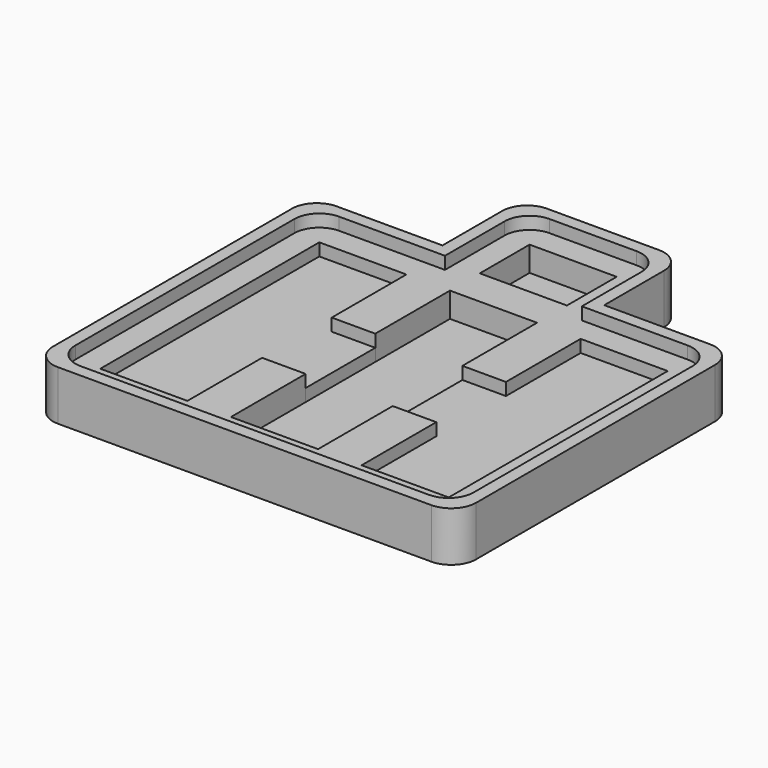
from build123d import *

# Parameters (mm, degrees)
F0_W     = 22.225
F0_H     = 23.8125
F0_H_2   = 22.225
F1_DEPTH = 3.175
F0_W_2   = 11.1125
F2_DEPTH = 6.35
F0_W_3   = 6.35
F0_H_3   = 3.175
F3_DEPTH = 9.525
F4_DEPTH = 12.7
F5_R     = 6.35


with BuildPart() as f1:
    # F0 (on Top) → F1 (new body)
    with BuildSketch(Plane.XY):
        with Locations((10.0915509015, 27.4633634105)):
            Rectangle(F0_W, F0_H)
        with Locations((10.0915509015, 4.4446134105)):
            Rectangle(F0_W, F0_H_2)
        with Locations((10.0915509015, -18.5741365895)):
            Rectangle(F0_W, F0_H)
    extrude(amount=F1_DEPTH)

    # F0 (on Top) → F2 (join)
    with BuildSketch(Plane.XY):
        with BuildLine():
            Line((48.1915509015, 39.3696134105), (32.3165509015, 39.3696134105))
            Line((32.3165509015, 39.3696134105), (32.3165509015, 15.5571134105))
            Line((32.3165509015, 15.5571134105), (32.3165509015, -6.6678865895))
            Line((32.3165509015, -6.6678865895), (32.3165509015, -30.4803865895))
            Line((32.3165509015, -30.4803865895), (48.1915509015, -30.4803865895))
            ThreePointArc((48.1915509015, -30.4803865895), (50.051422841, -25.9902585289), (54.5415509015, -24.1303865895))
            Line((54.5415509015, -24.1303865895), (54.5415509015, 33.0196134105))
            ThreePointArc((54.5415509015, 33.0196134105), (50.051422841, 34.87948535), (48.1915509015, 39.3696134105))
        make_face()
        with BuildLine():
            Line((-12.1334490985, 39.3696134105), (-28.0084490985, 39.3696134105))
            ThreePointArc((-28.0084490985, 39.3696134105), (-29.8683210379, 34.87948535), (-34.3584490985, 33.0196134105))
            Line((-34.3584490985, 33.0196134105), (-34.3584490985, -24.1303865895))
            ThreePointArc((-34.3584490985, -24.1303865895), (-29.8683210379, -25.9902585289), (-28.0084490985, -30.4803865895))
            Line((-28.0084490985, -30.4803865895), (-12.1334490985, -30.4803865895))
            Line((-12.1334490985, -30.4803865895), (-12.1334490985, -6.6678865895))
            Line((-12.1334490985, -6.6678865895), (-12.1334490985, 15.5571134105))
            Line((-12.1334490985, 15.5571134105), (-12.1334490985, 39.3696134105))
        make_face()
        with Locations((-6.5771990985, 4.4446134105)):
            Rectangle(F0_W_2, F0_H_2)
        with Locations((26.7603009015, 4.4446134105)):
            Rectangle(F0_W_2, F0_H_2)
        with BuildLine():
            Line((-28.0084490985, 39.3696134105), (-34.3584490985, 39.3696134105))
            Line((-34.3584490985, 39.3696134105), (-34.3584490985, 33.0196134105))
            ThreePointArc((-34.3584490985, 33.0196134105), (-29.8683210379, 34.87948535), (-28.0084490985, 39.3696134105))
        make_face()
        with BuildLine():
            ThreePointArc((-28.0084490985, -30.4803865895), (-29.8683210379, -25.9902585289), (-34.3584490985, -24.1303865895))
            Line((-34.3584490985, -24.1303865895), (-34.3584490985, -30.4803865895))
            Line((-34.3584490985, -30.4803865895), (-28.0084490985, -30.4803865895))
        make_face()
        with BuildLine():
            Line((54.5415509015, 39.3696134105), (48.1915509015, 39.3696134105))
            ThreePointArc((48.1915509015, 39.3696134105), (50.051422841, 34.87948535), (54.5415509015, 33.0196134105))
            Line((54.5415509015, 33.0196134105), (54.5415509015, 39.3696134105))
        make_face()
        with BuildLine():
            Line((48.1915509015, -30.4803865895), (54.5415509015, -30.4803865895))
            Line((54.5415509015, -30.4803865895), (54.5415509015, -24.1303865895))
            ThreePointArc((54.5415509015, -24.1303865895), (50.051422841, -25.9902585289), (48.1915509015, -30.4803865895))
        make_face()
    extrude(amount=F2_DEPTH)


with BuildPart() as f1b:
    # F0 (on Top) → F1, piece 2 (new body)
    with BuildSketch(Plane.XY):
        with BuildLine():
            Line((-1.0209490985, 58.4196134105), (-1.0209490985, 48.8946134105))
            Line((-1.0209490985, 48.8946134105), (21.2040509015, 48.8946134105))
            Line((21.2040509015, 48.8946134105), (21.2040509015, 58.4196134105))
            ThreePointArc((21.2040509015, 58.4196134105), (16.713922841, 60.27948535), (14.8540509015, 64.7696134105))
            Line((14.8540509015, 64.7696134105), (5.3290509015, 64.7696134105))
            ThreePointArc((5.3290509015, 64.7696134105), (3.4691789621, 60.27948535), (-1.0209490985, 58.4196134105))
        make_face()
        with BuildLine():
            Line((-1.0209490985, 64.7696134105), (-1.0209490985, 58.4196134105))
            ThreePointArc((-1.0209490985, 58.4196134105), (3.4691789621, 60.27948535), (5.3290509015, 64.7696134105))
            Line((5.3290509015, 64.7696134105), (-1.0209490985, 64.7696134105))
        make_face()
        with BuildLine():
            ThreePointArc((14.8540509015, 64.7696134105), (16.713922841, 60.27948535), (21.2040509015, 58.4196134105))
            Line((21.2040509015, 58.4196134105), (21.2040509015, 64.7696134105))
            Line((21.2040509015, 64.7696134105), (14.8540509015, 64.7696134105))
        make_face()
    extrude(amount=F1_DEPTH)


with BuildPart() as f3:
    # F0 (on Top) → F3 (new body)
    with BuildSketch(Plane.XY):
        with BuildLine():
            Line((-40.7084490985, 39.3696134105), (-34.3584490985, 39.3696134105))
            Line((-34.3584490985, 39.3696134105), (-34.3584490985, 45.7196134105))
            ThreePointArc((-34.3584490985, 45.7196134105), (-38.848577159, 43.8597414711), (-40.7084490985, 39.3696134105))
        make_face()
        with BuildLine():
            Line((-34.3584490985, 45.7196134105), (-34.3584490985, 39.3696134105))
            Line((-34.3584490985, 39.3696134105), (-28.0084490985, 39.3696134105))
            ThreePointArc((-28.0084490985, 39.3696134105), (-29.8683210379, 43.8597414711), (-34.3584490985, 45.7196134105))
        make_face()
        with BuildLine():
            ThreePointArc((-34.3584490985, 45.7196134105), (-29.8683210379, 43.8597414711), (-28.0084490985, 39.3696134105))
            Line((-28.0084490985, 39.3696134105), (-12.1334490985, 39.3696134105))
            Line((-12.1334490985, 39.3696134105), (-1.0209490985, 39.3696134105))
            Line((-1.0209490985, 39.3696134105), (21.2040509015, 39.3696134105))
            Line((21.2040509015, 39.3696134105), (32.3165509015, 39.3696134105))
            Line((32.3165509015, 39.3696134105), (48.1915509015, 39.3696134105))
            ThreePointArc((48.1915509015, 39.3696134105), (50.051422841, 43.8597414711), (54.5415509015, 45.7196134105))
            Line((54.5415509015, 45.7196134105), (27.5540509015, 45.7196134105))
            Line((27.5540509015, 45.7196134105), (21.2040509015, 45.7196134105))
            Line((21.2040509015, 45.7196134105), (-1.0209490985, 45.7196134105))
            Line((-1.0209490985, 45.7196134105), (-7.3709490985, 45.7196134105))
            Line((-7.3709490985, 45.7196134105), (-34.3584490985, 45.7196134105))
        make_face()
        with BuildLine():
            ThreePointArc((54.5415509015, 45.7196134105), (50.051422841, 43.8597414711), (48.1915509015, 39.3696134105))
            Line((48.1915509015, 39.3696134105), (54.5415509015, 39.3696134105))
            Line((54.5415509015, 39.3696134105), (54.5415509015, 45.7196134105))
        make_face()
        with BuildLine():
            ThreePointArc((60.8915509015, 39.3696134105), (59.0316789621, 43.8597414711), (54.5415509015, 45.7196134105))
            Line((54.5415509015, 45.7196134105), (54.5415509015, 39.3696134105))
            Line((54.5415509015, 39.3696134105), (60.8915509015, 39.3696134105))
        make_face()
        with BuildLine():
            ThreePointArc((54.5415509015, 33.0196134105), (59.0316789621, 34.87948535), (60.8915509015, 39.3696134105))
            Line((60.8915509015, 39.3696134105), (54.5415509015, 39.3696134105))
            Line((54.5415509015, 39.3696134105), (54.5415509015, 33.0196134105))
        make_face()
        with BuildLine():
            ThreePointArc((54.5415509015, -24.1303865895), (59.0316789621, -25.9902585289), (60.8915509015, -30.4803865895))
            Line((60.8915509015, -30.4803865895), (60.8915509015, 39.3696134105))
            ThreePointArc((60.8915509015, 39.3696134105), (59.0316789621, 34.87948535), (54.5415509015, 33.0196134105))
            Line((54.5415509015, 33.0196134105), (54.5415509015, -24.1303865895))
        make_face()
        with BuildLine():
            Line((54.5415509015, -24.1303865895), (54.5415509015, -30.4803865895))
            Line((54.5415509015, -30.4803865895), (60.8915509015, -30.4803865895))
            ThreePointArc((60.8915509015, -30.4803865895), (59.0316789621, -25.9902585289), (54.5415509015, -24.1303865895))
        make_face()
        with BuildLine():
            Line((54.5415509015, -30.4803865895), (54.5415509015, -36.8303865895))
            ThreePointArc((54.5415509015, -36.8303865895), (59.0316789621, -34.97051465), (60.8915509015, -30.4803865895))
            Line((60.8915509015, -30.4803865895), (54.5415509015, -30.4803865895))
        make_face()
        with BuildLine():
            ThreePointArc((48.1915509015, -30.4803865895), (50.051422841, -34.97051465), (54.5415509015, -36.8303865895))
            Line((54.5415509015, -36.8303865895), (54.5415509015, -30.4803865895))
            Line((54.5415509015, -30.4803865895), (48.1915509015, -30.4803865895))
        make_face()
        with BuildLine():
            Line((-12.1334490985, -30.4803865895), (-28.0084490985, -30.4803865895))
            ThreePointArc((-28.0084490985, -30.4803865895), (-29.8683210379, -34.97051465), (-34.3584490985, -36.8303865895))
            Line((-34.3584490985, -36.8303865895), (54.5415509015, -36.8303865895))
            ThreePointArc((54.5415509015, -36.8303865895), (50.051422841, -34.97051465), (48.1915509015, -30.4803865895))
            Line((48.1915509015, -30.4803865895), (32.3165509015, -30.4803865895))
            Line((32.3165509015, -30.4803865895), (21.2040509015, -30.4803865895))
            Line((21.2040509015, -30.4803865895), (-1.0209490985, -30.4803865895))
            Line((-1.0209490985, -30.4803865895), (-12.1334490985, -30.4803865895))
        make_face()
        with BuildLine():
            Line((-28.0084490985, -30.4803865895), (-34.3584490985, -30.4803865895))
            Line((-34.3584490985, -30.4803865895), (-34.3584490985, -36.8303865895))
            ThreePointArc((-34.3584490985, -36.8303865895), (-29.8683210379, -34.97051465), (-28.0084490985, -30.4803865895))
        make_face()
        with BuildLine():
            Line((-34.3584490985, -30.4803865895), (-40.7084490985, -30.4803865895))
            ThreePointArc((-40.7084490985, -30.4803865895), (-38.848577159, -34.97051465), (-34.3584490985, -36.8303865895))
            Line((-34.3584490985, -36.8303865895), (-34.3584490985, -30.4803865895))
        make_face()
        with BuildLine():
            Line((-34.3584490985, -24.1303865895), (-34.3584490985, 33.0196134105))
            ThreePointArc((-34.3584490985, 33.0196134105), (-38.848577159, 34.87948535), (-40.7084490985, 39.3696134105))
            Line((-40.7084490985, 39.3696134105), (-40.7084490985, -30.4803865895))
            ThreePointArc((-40.7084490985, -30.4803865895), (-38.848577159, -25.9902585289), (-34.3584490985, -24.1303865895))
        make_face()
        with BuildLine():
            Line((-34.3584490985, -30.4803865895), (-34.3584490985, -24.1303865895))
            ThreePointArc((-34.3584490985, -24.1303865895), (-38.848577159, -25.9902585289), (-40.7084490985, -30.4803865895))
            Line((-40.7084490985, -30.4803865895), (-34.3584490985, -30.4803865895))
        make_face()
        with BuildLine():
            Line((-34.3584490985, 33.0196134105), (-34.3584490985, 39.3696134105))
            Line((-34.3584490985, 39.3696134105), (-40.7084490985, 39.3696134105))
            ThreePointArc((-40.7084490985, 39.3696134105), (-38.848577159, 34.87948535), (-34.3584490985, 33.0196134105))
        make_face()
        with Locations((-6.5771990985, 27.4633634105)):
            Rectangle(F0_W_2, F0_H)
        with Locations((26.7603009015, 27.4633634105)):
            Rectangle(F0_W_2, F0_H)
        with Locations((-6.5771990985, -18.5741365895)):
            Rectangle(F0_W_2, F0_H)
        with Locations((26.7603009015, -18.5741365895)):
            Rectangle(F0_W_2, F0_H)
        with Locations((-4.1959490985, 47.3071134105)):
            Rectangle(F0_W_3, F0_H_3)
        with Locations((10.0915509015, 47.3071134105)):
            Rectangle(F0_W, F0_H_3)
        with Locations((24.3790509015, 47.3071134105)):
            Rectangle(F0_W_3, F0_H_3)
        with BuildLine():
            Line((21.2040509015, 58.4196134105), (21.2040509015, 48.8946134105))
            Line((21.2040509015, 48.8946134105), (27.5540509015, 48.8946134105))
            Line((27.5540509015, 48.8946134105), (27.5540509015, 64.7696134105))
            ThreePointArc((27.5540509015, 64.7696134105), (25.6941789621, 60.27948535), (21.2040509015, 58.4196134105))
        make_face()
        with BuildLine():
            Line((21.2040509015, 64.7696134105), (21.2040509015, 58.4196134105))
            ThreePointArc((21.2040509015, 58.4196134105), (25.6941789621, 60.27948535), (27.5540509015, 64.7696134105))
            Line((27.5540509015, 64.7696134105), (21.2040509015, 64.7696134105))
        make_face()
        with BuildLine():
            ThreePointArc((27.5540509015, 64.7696134105), (25.6941789621, 69.2597414711), (21.2040509015, 71.1196134105))
            Line((21.2040509015, 71.1196134105), (21.2040509015, 64.7696134105))
            Line((21.2040509015, 64.7696134105), (27.5540509015, 64.7696134105))
        make_face()
        with BuildLine():
            Line((21.2040509015, 64.7696134105), (21.2040509015, 71.1196134105))
            ThreePointArc((21.2040509015, 71.1196134105), (16.713922841, 69.2597414711), (14.8540509015, 64.7696134105))
            Line((14.8540509015, 64.7696134105), (21.2040509015, 64.7696134105))
        make_face()
        with BuildLine():
            Line((21.2040509015, 71.1196134105), (-1.0209490985, 71.1196134105))
            ThreePointArc((-1.0209490985, 71.1196134105), (3.4691789621, 69.2597414711), (5.3290509015, 64.7696134105))
            Line((5.3290509015, 64.7696134105), (14.8540509015, 64.7696134105))
            ThreePointArc((14.8540509015, 64.7696134105), (16.713922841, 69.2597414711), (21.2040509015, 71.1196134105))
        make_face()
        with BuildLine():
            Line((-1.0209490985, 71.1196134105), (-1.0209490985, 64.7696134105))
            Line((-1.0209490985, 64.7696134105), (5.3290509015, 64.7696134105))
            ThreePointArc((5.3290509015, 64.7696134105), (3.4691789621, 69.2597414711), (-1.0209490985, 71.1196134105))
        make_face()
        with BuildLine():
            ThreePointArc((-1.0209490985, 71.1196134105), (-5.511077159, 69.2597414711), (-7.3709490985, 64.7696134105))
            Line((-7.3709490985, 64.7696134105), (-1.0209490985, 64.7696134105))
            Line((-1.0209490985, 64.7696134105), (-1.0209490985, 71.1196134105))
        make_face()
        with BuildLine():
            Line((-1.0209490985, 64.7696134105), (-7.3709490985, 64.7696134105))
            ThreePointArc((-7.3709490985, 64.7696134105), (-5.511077159, 60.27948535), (-1.0209490985, 58.4196134105))
            Line((-1.0209490985, 58.4196134105), (-1.0209490985, 64.7696134105))
        make_face()
        with BuildLine():
            Line((-7.3709490985, 64.7696134105), (-7.3709490985, 48.8946134105))
            Line((-7.3709490985, 48.8946134105), (-1.0209490985, 48.8946134105))
            Line((-1.0209490985, 48.8946134105), (-1.0209490985, 58.4196134105))
            ThreePointArc((-1.0209490985, 58.4196134105), (-5.511077159, 60.27948535), (-7.3709490985, 64.7696134105))
        make_face()
    extrude(amount=F3_DEPTH)

    # F0 (on Top) → F4 (join)
    with BuildSketch(Plane.XY):
        with BuildLine():
            ThreePointArc((-40.7084490985, 39.3696134105), (-38.848577159, 43.8597414711), (-34.3584490985, 45.7196134105))
            Line((-34.3584490985, 45.7196134105), (-7.3709490985, 45.7196134105))
            Line((-7.3709490985, 45.7196134105), (-7.3709490985, 48.8946134105))
            Line((-7.3709490985, 48.8946134105), (-10.5459490985, 48.8946134105))
            Line((-10.5459490985, 48.8946134105), (-43.8834490985, 48.8946134105))
            Line((-43.8834490985, 48.8946134105), (-43.8834490985, -40.0053865895))
            Line((-43.8834490985, -40.0053865895), (64.0665509015, -40.0053865895))
            Line((64.0665509015, -40.0053865895), (64.0665509015, 48.8946134105))
            Line((64.0665509015, 48.8946134105), (30.7290509015, 48.8946134105))
            Line((30.7290509015, 48.8946134105), (27.5540509015, 48.8946134105))
            Line((27.5540509015, 48.8946134105), (27.5540509015, 45.7196134105))
            Line((27.5540509015, 45.7196134105), (54.5415509015, 45.7196134105))
            ThreePointArc((54.5415509015, 45.7196134105), (59.0316789621, 43.8597414711), (60.8915509015, 39.3696134105))
            Line((60.8915509015, 39.3696134105), (60.8915509015, -30.4803865895))
            ThreePointArc((60.8915509015, -30.4803865895), (59.0316789621, -34.97051465), (54.5415509015, -36.8303865895))
            Line((54.5415509015, -36.8303865895), (-34.3584490985, -36.8303865895))
            ThreePointArc((-34.3584490985, -36.8303865895), (-38.848577159, -34.97051465), (-40.7084490985, -30.4803865895))
            Line((-40.7084490985, -30.4803865895), (-40.7084490985, 39.3696134105))
        make_face()
        with BuildLine():
            Line((-10.5459490985, 48.8946134105), (-7.3709490985, 48.8946134105))
            Line((-7.3709490985, 48.8946134105), (-7.3709490985, 64.7696134105))
            ThreePointArc((-7.3709490985, 64.7696134105), (-5.511077159, 69.2597414711), (-1.0209490985, 71.1196134105))
            Line((-1.0209490985, 71.1196134105), (21.2040509015, 71.1196134105))
            ThreePointArc((21.2040509015, 71.1196134105), (25.6941789621, 69.2597414711), (27.5540509015, 64.7696134105))
            Line((27.5540509015, 64.7696134105), (27.5540509015, 48.8946134105))
            Line((27.5540509015, 48.8946134105), (30.7290509015, 48.8946134105))
            Line((30.7290509015, 48.8946134105), (30.7290509015, 74.2946134105))
            Line((30.7290509015, 74.2946134105), (-10.5459490985, 74.2946134105))
            Line((-10.5459490985, 74.2946134105), (-10.5459490985, 48.8946134105))
        make_face()
    extrude(amount=F4_DEPTH)

    # F5
    f5_edges = [f3.edges().sort_by_distance(p)[0] for p in [
        (-43.883449, 48.894613, 6.35),
        (64.066551, 48.894613, 6.35),
        (64.066551, -40.005387, 6.35),
        (-43.883449, -40.005387, 6.35),
        (-10.545949, 74.294613, 6.35),
        (30.729051, 74.294613, 6.35),
    ]]
    fillet(f5_edges, radius=F5_R)


solid = Compound([f1.part, f1b.part, f3.part])
